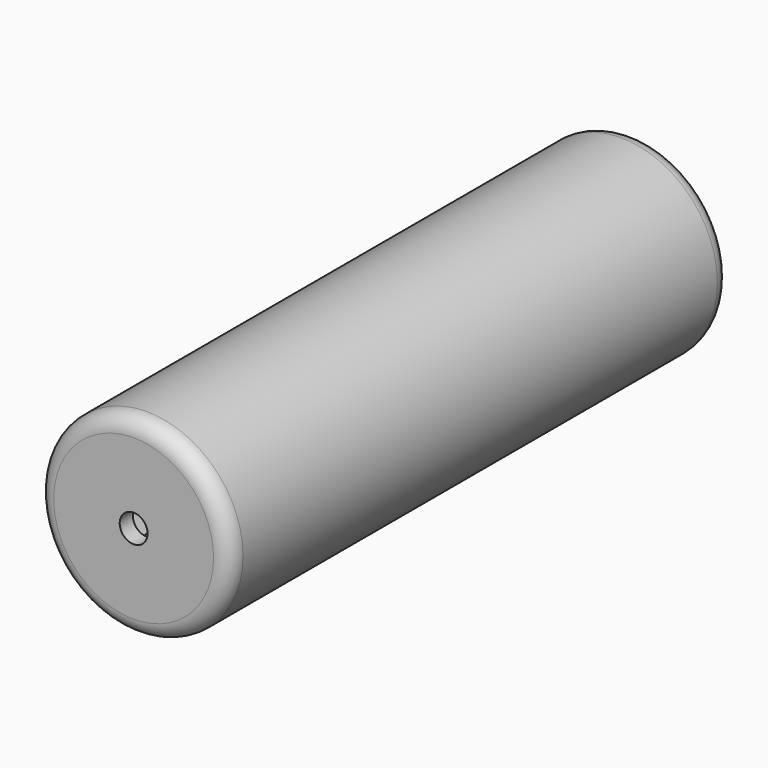
from build123d import *

# Parameters (mm, degrees)
F0_R     = 11.75
F0_R_2   = 1.7
F1_DEPTH = 76.36
F2_R     = 2
F3_START = -2
F3_DEPTH = 2.35
F4_DEPTH = 89.7
F6_START = -2
F5_R     = 1.7
F6_DEPTH = 2.5


with BuildPart() as f1:
    # F0 (on Front) → F1 (new body)
    with BuildSketch(Plane.XZ):
        Circle(F0_R)
        Polygon((1.6112496617, 2.7362762765), (3.175309598, -0.0272450006), (1.5640599363, -2.7635212771), (-1.6112496617, -2.7362762765), (-3.175309598, 0.0272450006), (-1.5640599363, 2.7635212771), align=None, mode=Mode.SUBTRACT)
        Polygon((1.5640599363, -2.7635212771), (3.175309598, -0.0272450006), (1.6112496617, 2.7362762765), (-1.5640599363, 2.7635212771), (-3.175309598, 0.0272450006), (-1.6112496617, -2.7362762765), align=None)
        Circle(F0_R_2, mode=Mode.SUBTRACT)
        Circle(F0_R_2)
    extrude(amount=-F1_DEPTH)

    # F2
    f2_edges = [f1.edges().sort_by_distance(p)[0] for p in [
        (-11.75, 0, 0),
        (-11.75, 76.36, 0),
    ]]
    fillet(f2_edges, radius=F2_R)

    # F0 (on Front) → F3 (cut)
    with BuildSketch(Plane.XZ.offset(F3_START)):
        Polygon((1.5640599363, -2.7635212771), (3.175309598, -0.0272450006), (1.6112496617, 2.7362762765), (-1.5640599363, 2.7635212771), (-3.175309598, 0.0272450006), (-1.6112496617, -2.7362762765), align=None)
        Circle(F0_R_2, mode=Mode.SUBTRACT)
    extrude(amount=-F3_DEPTH, mode=Mode.SUBTRACT)

    # F0 (on Front) → F4 (cut)
    with BuildSketch(Plane.XZ):
        Circle(F0_R_2)
    extrude(amount=-F4_DEPTH, mode=Mode.SUBTRACT)

    # F5 (on face) → F6 (cut)
    with BuildSketch(Plane(origin=(0, 76.36, 0), x_dir=(-1, 0, 0), z_dir=(0, 1, 0)).offset(F6_START)):
        Polygon((-1.5877132403, -2.75), (1.5877132403, -2.75), (3.1754264805, 0), (1.5877132403, 2.75), (-1.5877132403, 2.75), (-3.1754264805, 0), align=None)
        Circle(F5_R, mode=Mode.SUBTRACT)
    extrude(amount=-F6_DEPTH, mode=Mode.SUBTRACT)


solid = f1.part
